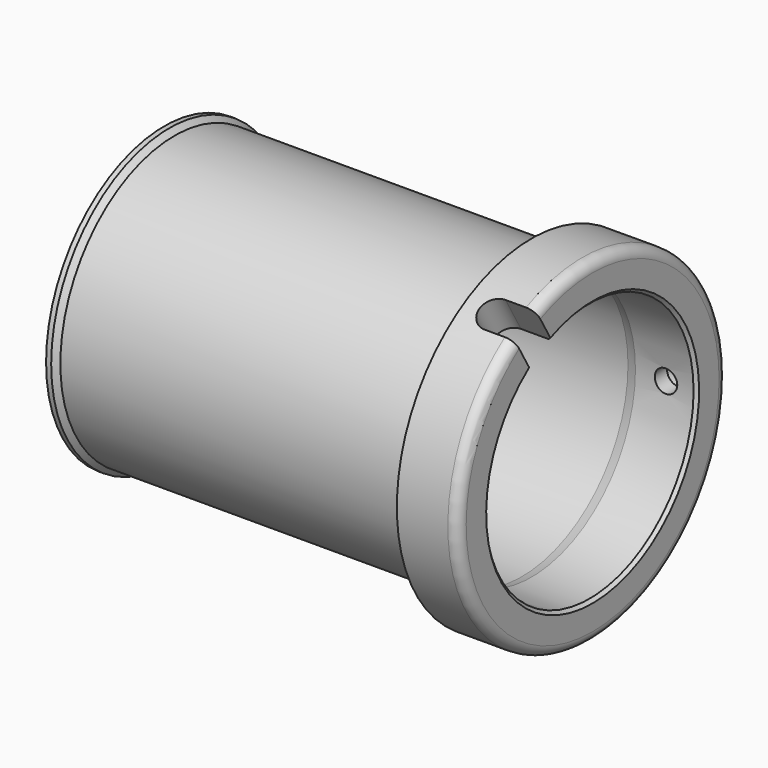
from build123d import *

# Parameters (mm, degrees)
SKETCH031_R           = 2.8
POCKET195_DEPTH       = 4.5
SKETCH032_R           = 2.2
POCKET196_DEPTH       = 284.142395
POLARPATTERN008_COUNT = 2
POLARPATTERN008_ANGLE = 120
POCKET197_DEPTH       = 20.679838
CHAMFER001_SIZE       = 0.6


with BuildPart() as part:
    # Sketch022 → Revolution001 (revolve)
    with BuildSketch(Plane.XY):
        with BuildLine():
            Line((0, 26), (70.133975, 26))
            Line((70.133975, 26), (72, 25.5))
            Line((72, 25.5), (84, 25.5))
            Line((84, 31), (84, 25.5))
            ThreePointArc((84, 31), (83.414214, 32.414214), (82, 33))
            Line((72, 33), (82, 33))
            Line((72, 28), (72, 33))
            Line((2, 28), (72, 28))
            Line((1, 29), (2, 28))
            Line((0, 29), (1, 29))
            Line((0, 26), (0, 29))
        make_face()
    revolve(axis=Axis((0, 0, 0), (1, 0, 0)))

    # Sketch031 (on DatumPlane) → Pocket195 (cut)
    with BuildSketch(Plane(origin=(78, 33, 0), x_dir=(-1, 0, 0), z_dir=(0, 1, 0))):
        Circle(SKETCH031_R)
    pocket195 = extrude(amount=-POCKET195_DEPTH, mode=Mode.SUBTRACT)

    # Sketch032 (on DatumPlane) → Pocket196 (cut, through all)
    with BuildSketch(Plane(origin=(78, 0, 0), x_dir=(1, 0, 0), z_dir=(0, -1, 0))):
        Circle(SKETCH032_R)
    pocket196 = extrude(amount=-POCKET196_DEPTH, mode=Mode.SUBTRACT)

    # PolarPattern008: Pocket195, Pocket196 ×2 about axis
    polarpattern008_axis = Axis((0, 0, 0), (-1, 0, 0))
    for i in range(1, POLARPATTERN008_COUNT):
        add(pocket195.rotate(polarpattern008_axis, i * POLARPATTERN008_ANGLE / (POLARPATTERN008_COUNT - 1)), mode=Mode.SUBTRACT)
        add(pocket196.rotate(polarpattern008_axis, i * POLARPATTERN008_ANGLE / (POLARPATTERN008_COUNT - 1)), mode=Mode.SUBTRACT)

    # Sketch146 (on DatumPlane) → Pocket197 (cut, through all)
    with BuildSketch(Plane(origin=(78, -12.2, 21.13102), x_dir=(1, 0, 0), z_dir=(0, 0.5, -0.866025))):
        with BuildLine():
            Line((7, 3), (0, 3))
            ThreePointArc((0, 3), (-3, 0), (0, -3))
            Line((0, -3), (7, -3))
            Line((7, -3), (7, 3))
        make_face()
    extrude(amount=-POCKET197_DEPTH, mode=Mode.SUBTRACT)

    # Chamfer001
    chamfer001_edges = [part.edges().sort_by_distance(p)[0] for p in [
        (84, 14.029144, 21.293969),
        (84, -11.426546, -22.79658),
    ]]
    chamfer(chamfer001_edges, length=CHAMFER001_SIZE)


with BuildPart() as part_1:
    # Body007 placement: moved
    add(part.part.moved(Location((110, 0, 835))))


solid = part_1.part
